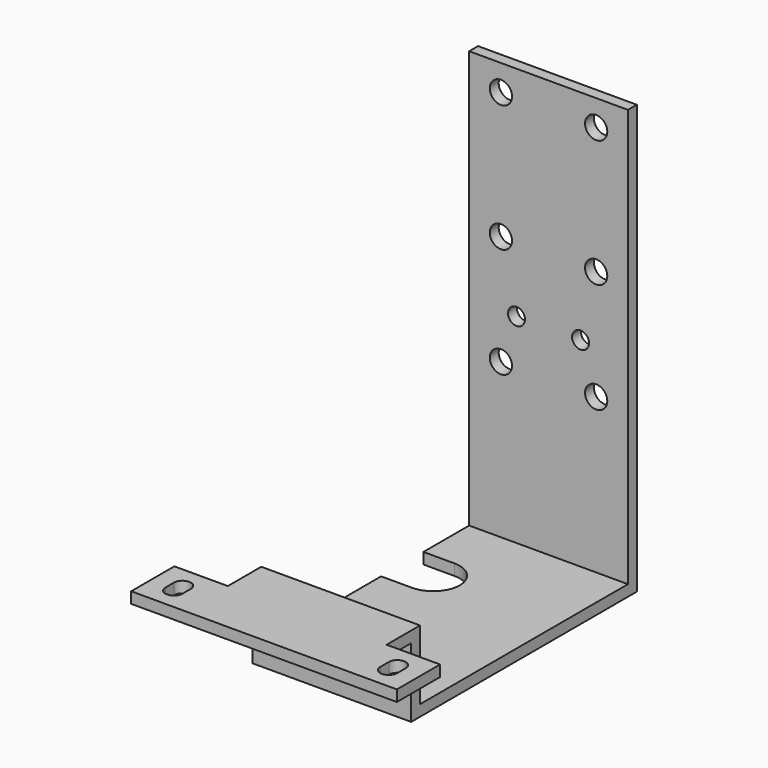
from build123d import *

# Parameters (mm, degrees)
F0_W      = 30
F0_H      = 81
F1_DEPTH  = 2.1
F2_W      = 30
F2_H      = 2.1
F3_DEPTH  = 51.2
F4_W      = 30
F4_H      = 2.1
F5_DEPTH  = 13.1
F6_W      = 30
F6_H      = 2.1
F7_DEPTH  = 16
F8_W      = 10.1
F8_H      = 10.2
F9_DEPTH  = 2.1
F11_DEPTH = 15.201
F13_DEPTH = 2.101
F14_R     = 2.1
F14_R_2   = 1.6
F15_DEPTH = 2.101


with BuildPart() as f1:
    # F0 (on Front) → F1 (new body)
    with BuildSketch(Plane.XZ):
        Rectangle(F0_W, F0_H)
    extrude(amount=F1_DEPTH)

    # F2 (on face) → F3 (join)
    with BuildSketch(Plane.XZ.offset(2.1)):
        with Locations((0, -39.45)):
            Rectangle(F2_W, F2_H)
    extrude(amount=F3_DEPTH)

    # F4 (on face) → F5 (join)
    with BuildSketch(Plane.XY.offset(-38.4)):
        with Locations((0, -52.25)):
            Rectangle(F4_W, F4_H)
    extrude(amount=F5_DEPTH)

    # F6 (on face) → F7 (join)
    with BuildSketch(Plane.XZ.offset(53.3)):
        with Locations((0, -26.35)):
            Rectangle(F6_W, F6_H)
    extrude(amount=F7_DEPTH)

    # F8 (on face) → F9 (join)
    with BuildSketch(Plane.XY.offset(-25.3)):
        with Locations((-20.05, -64.2)):
            Rectangle(F8_W, F8_H)
        with Locations((20.05, -64.2)):
            Rectangle(F8_W, F8_H)
    extrude(amount=-F9_DEPTH)

    # F10 (on face) → F11 (cut, through all)
    with BuildSketch(Plane.XY.offset(-25.3)):
        with BuildLine():
            Line((-21.9, -63.2), (-21.9, -65.2))
            ThreePointArc((-21.9, -65.2), (-20.3, -66.8), (-18.7, -65.2))
            Line((-18.7, -65.2), (-18.7, -63.2))
            ThreePointArc((-18.7, -63.2), (-20.3, -61.6), (-21.9, -63.2))
        make_face()
        with BuildLine():
            Line((18.7, -63.2), (18.7, -65.2))
            ThreePointArc((18.7, -65.2), (20.3, -66.8), (21.9, -65.2))
            Line((21.9, -65.2), (21.9, -63.2))
            ThreePointArc((21.9, -63.2), (20.3, -61.6), (18.7, -63.2))
        make_face()
    extrude(amount=-F11_DEPTH, mode=Mode.SUBTRACT)

    # F12 (on face) → F13 (cut, through all)
    with BuildSketch(Plane.XY.offset(-38.4)):
        with BuildLine():
            Line((-15, -22.894339), (-9.15, -22.894339))
            ThreePointArc((-9.15, -22.894339), (-4.15, -17.894339), (-9.15, -12.894339))
            Line((-9.15, -12.894339), (-15, -12.894339))
            Line((-15, -12.894339), (-15, -22.894339))
        make_face()
    extrude(amount=-F13_DEPTH, mode=Mode.SUBTRACT)

    # F14 (on face) → F15 (cut, through all)
    with BuildSketch(Plane.XZ.offset(2.1)):
        with Locations((9, 35.6)):
            Circle(F14_R)
        with Locations((9, 11.6)):
            Circle(F14_R)
        with Locations((-9, 35.6)):
            Circle(F14_R)
        with Locations((-9, 11.6)):
            Circle(F14_R)
        with Locations((9, -9.2)):
            Circle(F14_R)
        with Locations((-9, -9.2)):
            Circle(F14_R)
        with Locations((6.05, -0.7)):
            Circle(F14_R_2)
        with Locations((-6.05, -0.7)):
            Circle(F14_R_2)
    extrude(amount=-F15_DEPTH, mode=Mode.SUBTRACT)


solid = f1.part
